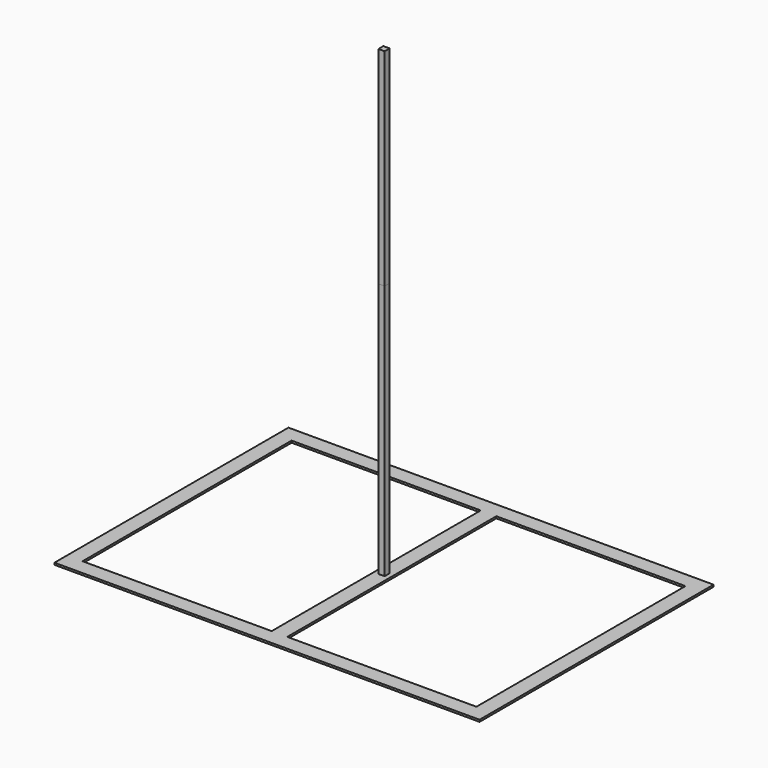
from build123d import *

# Parameters (mm, degrees)
F0_W      = 545
F0_H      = 375
F0_W_2    = 20
F0_H_2    = 335
F1_DEPTH  = 2.5
F2_W      = 8
F2_H      = 8
F3_DEPTH  = 330
F3_FACE_W = 8
F3_FACE_H = 8
F4_DEPTH  = 265


with BuildPart() as f1:
    # F0 (on Top) → F1 (new body)
    with BuildSketch(Plane.XY):
        Rectangle(F0_W, F0_H)
        Polygon((252.5, 167.5), (252.5, -167.5), (10, -167.5), (-10, -167.5), (-252.5, -167.5), (-252.5, 167.5), (-10, 167.5), (10, 167.5), align=None, mode=Mode.SUBTRACT)
        Rectangle(F0_W_2, F0_H_2)
    extrude(amount=F1_DEPTH)


with BuildPart() as f3:
    # F2 (on Top) → F3 (new body)
    with BuildSketch(Plane.XY):
        Rectangle(F2_W, F2_H)
    extrude(amount=F3_DEPTH)


with BuildPart() as f4:
    # F3_face (on face) → F4 (new body)
    with BuildSketch(Plane.XY.offset(330)):
        Rectangle(F3_FACE_W, F3_FACE_H)
    extrude(amount=F4_DEPTH)


solid = Compound([f1.part, f3.part, f4.part])
